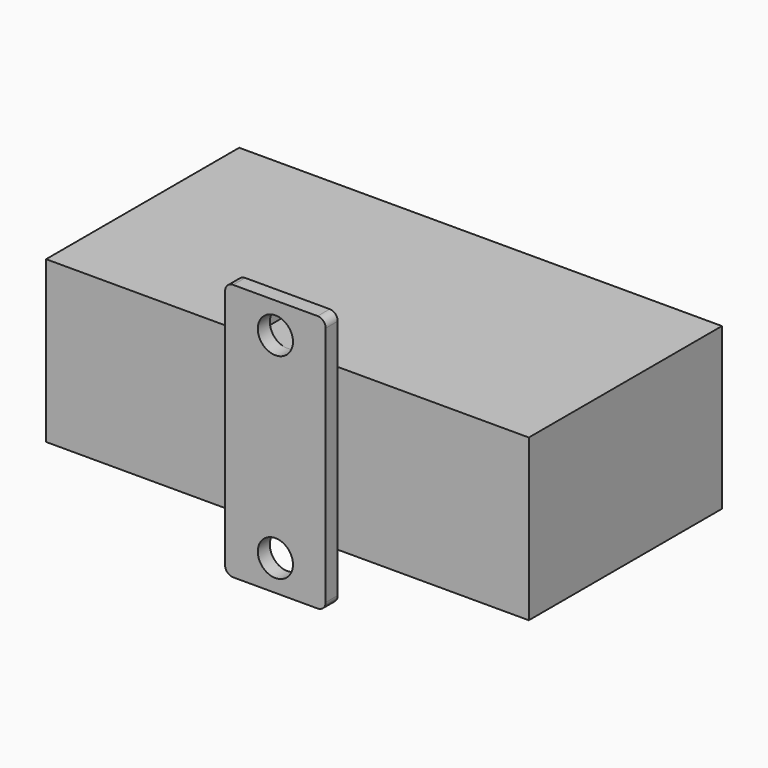
from build123d import *

# Parameters (mm, degrees)
F0_W     = 152.4
F0_H     = 101.6
F1_DEPTH = 152.4
F2_W     = 63.5
F2_H     = 162.56
F2_R     = 11.1125
F3_DEPTH = 9.525
F4_R     = 5.08
F6_DEPTH = 9.525


with BuildPart() as f1:
    # F0 (on Right) → F1 (new body, symmetric)
    with BuildSketch(Plane.YZ):
        Rectangle(F0_W, F0_H)
    extrude(amount=F1_DEPTH, both=True)


with BuildPart() as f3:
    # F2 (on face) → F3 (new body)
    with BuildSketch(Plane.XZ.offset(76.2)):
        Rectangle(F2_W, F2_H)
        with Locations((0, -61.9125)):
            Circle(F2_R, mode=Mode.SUBTRACT)
        with Locations((0, 61.9125)):
            Circle(F2_R, mode=Mode.SUBTRACT)
    extrude(amount=F3_DEPTH)

    # F4
    f4_edges = [f3.edges().sort_by_distance(p)[0] for p in [
        (-31.75, -80.9625, 81.28),
        (31.75, -80.9625, 81.28),
        (-31.75, -80.9625, -81.28),
        (31.75, -80.9625, -81.28),
    ]]
    fillet(f4_edges, radius=F4_R)


with BuildPart() as f6:
    # F5 (on face) → F6 (new body)
    with BuildSketch(Plane(origin=(-31.75, 0, 0), x_dir=(0, -1, 0), z_dir=(-1, 0, 0))):
        Polygon((44.45, 50.8), (76.2, 50.8), (76.2, 76.2), align=None)
    extrude(amount=-F6_DEPTH)


solid = Compound([f1.part, f3.part, f6.part])
